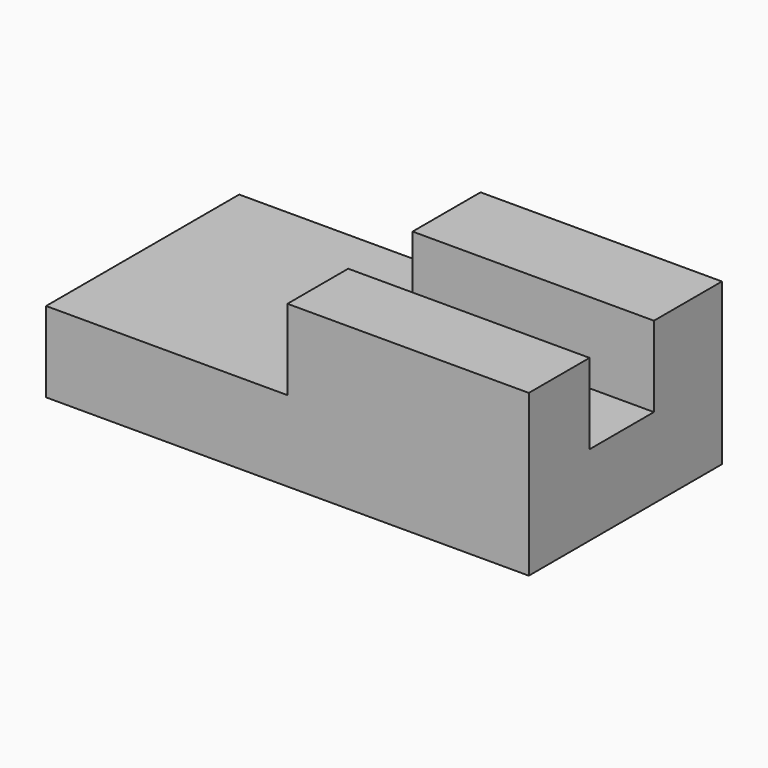
from build123d import *

# Parameters (mm, degrees)
F0_W     = 152.4
F0_H     = 50.8
F1_DEPTH = 76.2
F2_W     = 76.2
F2_H     = 25.4
F3_DEPTH = 25.4
F5_DEPTH = 25.4


with BuildPart() as f1:
    # F0 (on Front) → F1 (new body)
    with BuildSketch(Plane.XZ):
        with Locations((76.2, 25.4)):
            Rectangle(F0_W, F0_H)
    extrude(amount=F1_DEPTH)

    # F2 (on face) → F3 (cut)
    with BuildSketch(Plane.XY.offset(50.8)):
        with Locations((114.3, -39.528749)):
            Rectangle(F2_W, F2_H)
    extrude(amount=-F3_DEPTH, mode=Mode.SUBTRACT)

    # F4 (on face) → F5 (cut)
    with BuildSketch(Plane.XY.offset(50.8)):
        Polygon((76.2, -26.828749), (76.2, 0), (0, 0), (0, -76.2), (76.2, -76.2), (76.2, -52.228749), align=None)
    extrude(amount=-F5_DEPTH, mode=Mode.SUBTRACT)


solid = f1.part
